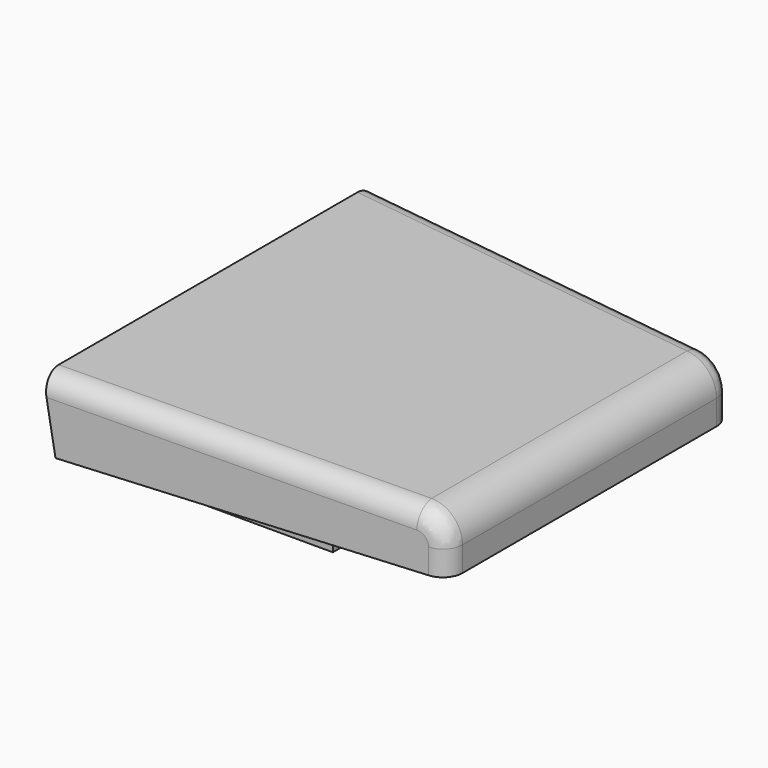
from build123d import *

# Parameters (mm, degrees)
PAD_DEPTH            = 18
POCKET_DEPTH         = 52.501
POCKET_DEPTH_BACK    = -52.501
POCKET001_DEPTH      = 52.501
POCKET001_DEPTH_BACK = -52.501
SKETCH003_W          = 57.660323
SKETCH003_H          = 78
PAD001_DEPTH         = 7
FILLET_R             = 8
FILLET001_R          = 5


with BuildPart() as part:
    # Sketch → Pad (new body)
    with BuildSketch(Plane.XY):
        Polygon((-97.028, -52.5), (-97.028, 52.5), (0, 45), (0, -45), align=None)
    extrude(amount=PAD_DEPTH)

    # Sketch001 → Pocket (cut, two sides)
    with BuildSketch(Plane(origin=(-97.028, 0, 0), x_dir=(1, 0, 0), z_dir=(0, -1, 0))) as pocket_sk:
        Polygon((0, 18), (3, 0), (0, 0), align=None)
    extrude(amount=-POCKET_DEPTH, mode=Mode.SUBTRACT)
    extrude(pocket_sk.sketch, amount=-POCKET_DEPTH_BACK, mode=Mode.SUBTRACT)

    # Sketch002 → Pocket001 (cut, two sides)
    with BuildSketch(Plane.XZ) as pocket001_sk:
        Polygon((-97.028, 18), (0, 14), (0, 18), align=None)
    extrude(amount=-POCKET001_DEPTH, mode=Mode.SUBTRACT)
    extrude(pocket001_sk.sketch, amount=-POCKET001_DEPTH_BACK, mode=Mode.SUBTRACT)

    # Sketch003 → Pad001 (join)
    with BuildSketch(Plane.XY):
        with Locations((-62.907697, 0)):
            Rectangle(SKETCH003_W, SKETCH003_H)
    extrude(amount=-PAD001_DEPTH)

    # Fillet
    fillet_edges = [part.edges().sort_by_distance(p)[0] for p in [
        (0, 0, 14),
    ]]
    fillet(fillet_edges, radius=FILLET_R)

    # Fillet001
    fillet001_edges = [part.edges().sort_by_distance(p)[0] for p in [
        (-52.349239, -49.046454, 16.158109),
        (-52.349239, 49.046454, 16.158109),
    ]]
    fillet(fillet001_edges, radius=FILLET001_R)


solid = part.part
